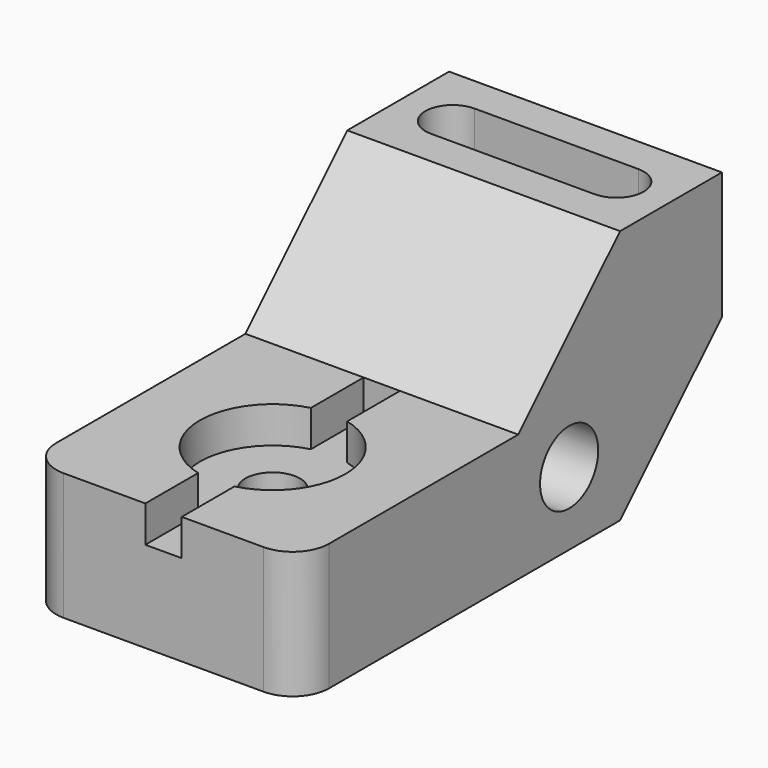
from build123d import *

# Parameters (mm, degrees)
F1_DEPTH       = 38.1
F2_R           = 10.16
F3_DEPTH       = 76.201
F5_DEPTH       = 27.94
F7_D           = 15.24
F7_CBORE_D     = 40.64
F7_CBORE_DEPTH = 10.16
F9_R           = 10.16
F10_DEPTH      = 10.16


with BuildPart() as f1:
    # F0 (on Right) → F1 (new body, symmetric)
    with BuildSketch(Plane.YZ):
        Polygon((-111.76, 0), (0, 0), (35.56, 35.56), (35.56, 71.12), (0, 71.12), (-35.56, 35.56), (-111.76, 35.56), align=None)
    extrude(amount=F1_DEPTH, both=True)

    # F2 (on face) → F3 (cut, through all)
    with BuildSketch(Plane.YZ.offset(38.1)):
        with Locations((-17.78, 20.32)):
            Circle(F2_R)
    extrude(amount=-F3_DEPTH, mode=Mode.SUBTRACT)

    # F4 (on face) → F5 (cut)
    with BuildSketch(Plane.XY.offset(71.12)):
        with BuildLine():
            Line((22.86, 25.4), (-22.86, 25.4))
            ThreePointArc((-22.86, 25.4), (-30.48, 17.78), (-22.86, 10.16))
            Line((-22.86, 10.16), (22.86, 10.16))
            ThreePointArc((22.86, 10.16), (30.48, 17.78), (22.86, 25.4))
        make_face()
        with BuildLine():
            Line((22.86, 25.4), (-22.86, 25.4))
            ThreePointArc((-22.86, 25.4), (-30.48, 17.78), (-22.86, 10.16))
            Line((-22.86, 10.16), (22.86, 10.16))
            ThreePointArc((22.86, 10.16), (30.48, 17.78), (22.86, 25.4))
        make_face()
    extrude(amount=-F5_DEPTH, mode=Mode.SUBTRACT)

    # F7 (through all)
    with Locations(Plane.XY.offset(35.56)):
        with Locations((0, -73.66)):
            CounterBoreHole(F7_D / 2, F7_CBORE_D / 2, F7_CBORE_DEPTH)

    # F9
    f9_edges = [f1.edges().sort_by_distance(p)[0] for p in [
        (38.1, -111.76, 17.78),
        (-38.1, -111.76, 17.78),
    ]]
    fillet(f9_edges, radius=F9_R)

    # F8 (on face) → F10 (cut)
    with BuildSketch(Plane.XY.offset(35.56)):
        with BuildLine():
            ThreePointArc((5.08, -93.3347553987), (0, -93.98), (-5.08, -93.3347553987))
            Line((-5.08, -93.3347553987), (-5.08, -111.76))
            Line((-5.08, -111.76), (5.08, -111.76))
            Line((5.08, -111.76), (5.08, -93.3347553987))
        make_face()
        with BuildLine():
            Line((-5.08, -35.56), (-5.08, -53.9852446013))
            ThreePointArc((-5.08, -53.9852446013), (0, -53.34), (5.08, -53.9852446013))
            Line((5.08, -53.9852446013), (5.08, -35.56))
            Line((5.08, -35.56), (-5.08, -35.56))
        make_face()
    extrude(amount=-F10_DEPTH, mode=Mode.SUBTRACT)


solid = f1.part
